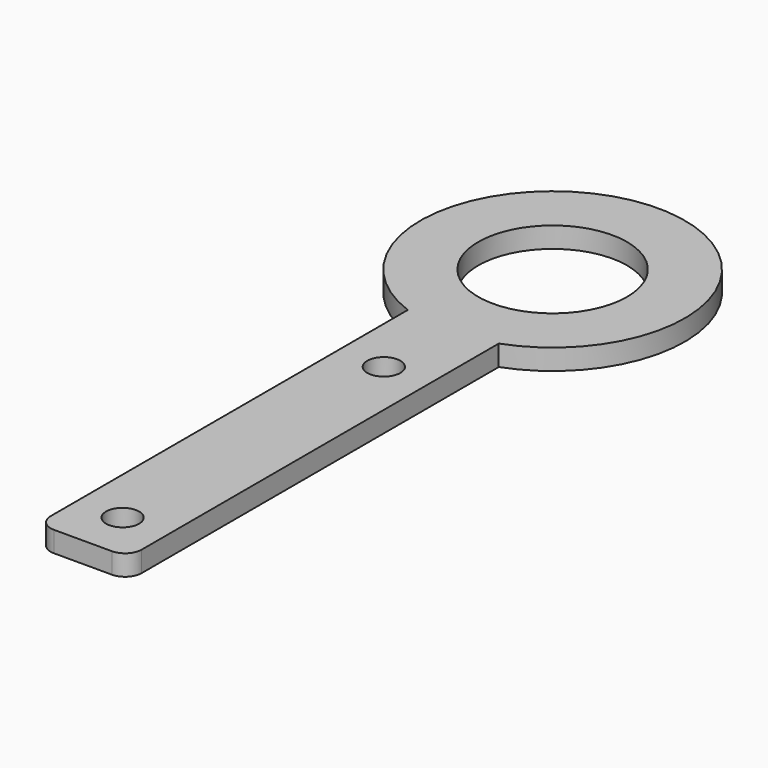
from build123d import *

# Parameters (mm, degrees)
F0_R     = 2
F0_R_2   = 9
F1_DEPTH = 2.5


with BuildPart() as f1:
    # F0 (on Top) → F1 (new body)
    with BuildSketch(Plane.XY):
        with BuildLine():
            ThreePointArc((0, 2), (0.585786, 0.585786), (2, 0))
            Line((2, 0), (9, 0))
            ThreePointArc((9, 0), (10.414214, 0.585786), (11, 2))
            Line((11, 2), (11, 56))
            ThreePointArc((11, 56), (5.5, 87.024979), (0, 56))
            Line((0, 56), (0, 2))
        make_face()
        with Locations((5.5, 6)):
            Circle(F0_R, mode=Mode.SUBTRACT)
        with Locations((5.5, 45.5)):
            Circle(F0_R, mode=Mode.SUBTRACT)
        with Locations((5.5, 71.024979)):
            Circle(F0_R_2, mode=Mode.SUBTRACT)
    extrude(amount=F1_DEPTH)


solid = f1.part
